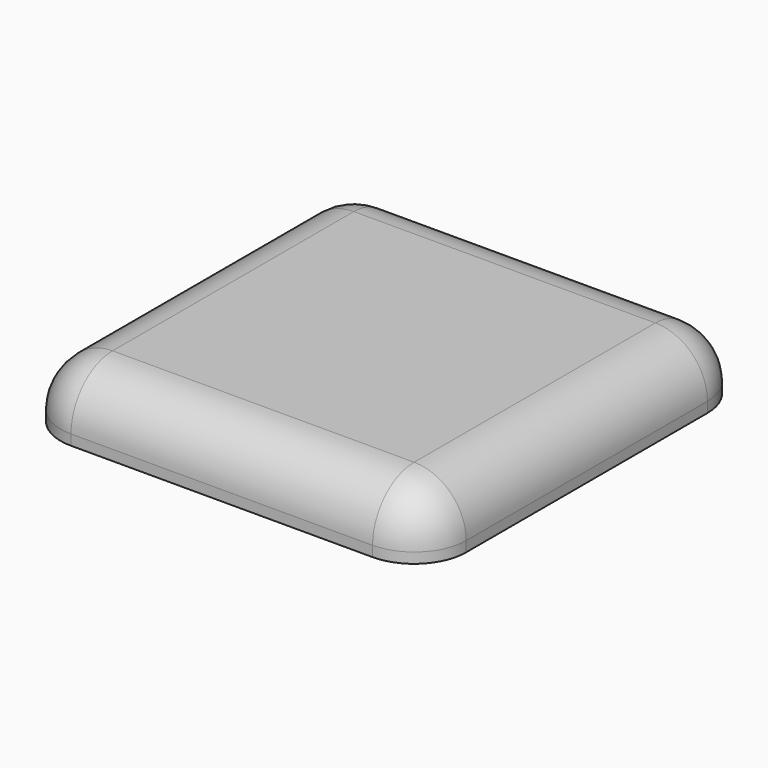
from build123d import *

# Parameters (mm, degrees)
F0_W     = 195
F0_H     = 195
F1_DEPTH = 30
F2_W     = 135
F2_H     = 135
F3_DEPTH = 15
F4_R     = 3
F5_R     = 25
F6_ANGLE = 180


with BuildPart() as f1:
    # F0 (on Top) → F1 (new body)
    with BuildSketch(Plane.XY):
        Rectangle(F0_W, F0_H)
    extrude(amount=F1_DEPTH)

    # F2 (on face) → F3 (join)
    with BuildSketch(Plane.XY.offset(30)):
        Rectangle(F2_W, F2_H)
    extrude(amount=F3_DEPTH)

    # F4
    f4_edges = [f1.edges().sort_by_distance(p)[0] for p in [
        (67.5, 0, 45),
        (0, 67.5, 45),
        (-67.5, 0, 45),
        (0, -67.5, 45),
        (67.5, -67.5, 37.5),
        (67.5, 67.5, 37.5),
        (-67.5, -67.5, 37.5),
        (-67.5, 67.5, 37.5),
    ]]
    fillet(f4_edges, radius=F4_R)

    # F5
    f5_edges = [f1.edges().sort_by_distance(p)[0] for p in [
        (97.5, 0, 0),
        (0, 97.5, 0),
        (-97.5, 0, 0),
        (0, -97.5, 0),
        (97.5, 97.5, 15),
        (-97.5, 97.5, 15),
        (-97.5, -97.5, 15),
        (97.5, -97.5, 15),
    ]]
    fillet(f5_edges, radius=F5_R)


with BuildPart() as f1_1:
    # F6: moved
    add(f1.part.rotate(Axis((97.5, 0, 30), (0, -1, 0)), F6_ANGLE))


with BuildPart() as f1_2:
    # F7: moved
    add(f1_1.part.moved(Location((-195, 0, 0))))


with BuildPart() as f1_3:
    # F8: moved
    add(f1_2.part.moved(Location((0, 0, -15))))


solid = f1_3.part
